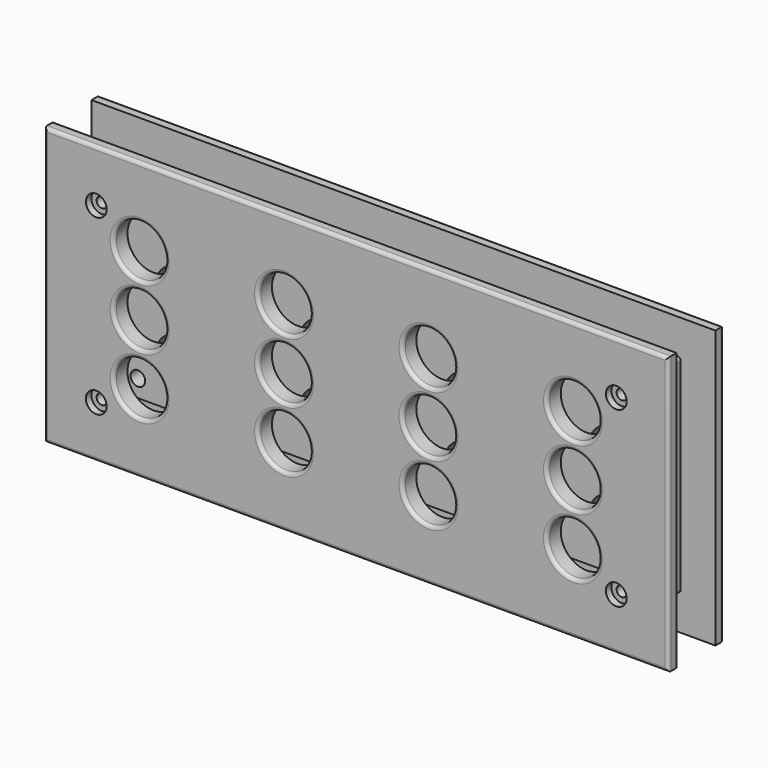
from build123d import *

# Parameters (mm, degrees)
F0_W      = 180
F0_H      = 80
F0_W_2    = 160
F0_H_2    = 60
F2_DEPTH  = 3
F1_W      = 160
F1_H      = 60
F1_R      = 7.5
F3_DEPTH  = 5
F4_R      = 1
F5_R      = 1
F6_R      = 1.5
F7_DEPTH  = 5.001
F10_R     = 2.1
F11_DEPTH = 5
F12_R     = 3
F13_DEPTH = 2


with BuildPart() as f2:
    # F0 (on Front) → F2 (new body)
    with BuildSketch(Plane.XZ):
        with Locations((-14.5841947198, -70.646559976)):
            Rectangle(F0_W, F0_H)
        with Locations((-14.5841947198, -70.646559976)):
            Rectangle(F0_W_2, F0_H_2, mode=Mode.SUBTRACT)
    extrude(amount=F2_DEPTH)

    # F1 (on face) → F3 (join)
    with BuildSketch(Plane.XZ):
        with Locations((-14.5841947198, -70.646559976)):
            Rectangle(F1_W, F1_H)
        with Locations((-77.0841947198, -88.146559976)):
            Circle(F1_R, mode=Mode.SUBTRACT)
        with Locations((-77.0841947198, -70.646559976)):
            Circle(F1_R, mode=Mode.SUBTRACT)
        with Locations((-35.4181947198, -88.146559976)):
            Circle(F1_R, mode=Mode.SUBTRACT)
        with Locations((-35.4181947198, -70.646559976)):
            Circle(F1_R, mode=Mode.SUBTRACT)
        with Locations((6.2478052802, -88.146559976)):
            Circle(F1_R, mode=Mode.SUBTRACT)
        with Locations((6.2478052802, -70.646559976)):
            Circle(F1_R, mode=Mode.SUBTRACT)
        with Locations((47.9138052802, -88.146559976)):
            Circle(F1_R, mode=Mode.SUBTRACT)
        with Locations((47.9138052802, -70.646559976)):
            Circle(F1_R, mode=Mode.SUBTRACT)
        with Locations((-77.0841947198, -53.146559976)):
            Circle(F1_R, mode=Mode.SUBTRACT)
        with Locations((-35.4181947198, -53.146559976)):
            Circle(F1_R, mode=Mode.SUBTRACT)
        with Locations((6.2478052802, -53.146559976)):
            Circle(F1_R, mode=Mode.SUBTRACT)
        with Locations((47.9138052802, -53.146559976)):
            Circle(F1_R, mode=Mode.SUBTRACT)
    extrude(amount=F3_DEPTH)

    # F4
    f4_edges = [f2.edges().sort_by_distance(p)[0] for p in [
        (65.415805, -4, -40.64656),
        (65.415805, -4, -100.64656),
        (-94.584195, -4, -100.64656),
        (-94.584195, -4, -40.64656),
    ]]
    fillet(f4_edges, radius=F4_R)

    # F5
    f5_edges = [f2.edges().sort_by_distance(p)[0] for p in [
        (75.415805, 0, -70.64656),
        (-14.584195, 0, -30.64656),
        (-104.584195, 0, -70.64656),
        (-14.584195, 0, -110.64656),
        (-84.584195, 0, -53.14656),
        (-42.918195, 0, -53.14656),
        (-1.252195, 0, -53.14656),
        (40.413805, 0, -53.14656),
        (-84.584195, 0, -88.14656),
        (-84.584195, 0, -70.64656),
        (-42.918195, 0, -88.14656),
        (-42.918195, 0, -70.64656),
        (-1.252195, 0, -88.14656),
        (-1.252195, 0, -70.64656),
        (40.413805, 0, -88.14656),
        (40.413805, 0, -70.64656),
    ]]
    fillet(f5_edges, radius=F5_R)

    # F6 (on face) → F7 (cut, through all)
    with BuildSketch(Plane(origin=(0, 0, 0), x_dir=(-1, 0, 0), z_dir=(0, 1, 0))):
        with Locations((-60.4158052802, -45.646559976)):
            Circle(F6_R)
        with Locations((89.5841947198, -45.646559976)):
            Circle(F6_R)
        with Locations((-60.4158052802, -95.646559976)):
            Circle(F6_R)
        with Locations((89.5841947198, -95.646559976)):
            Circle(F6_R)
    extrude(amount=-F7_DEPTH, mode=Mode.SUBTRACT)


with BuildPart() as f9_1:
    # F9: instance of F2
    add(f2.part.mirror(Plane(origin=(-14.58391009, -10, -70.646559976), x_dir=(1, 0, 0), z_dir=(0, -1, 0))))

    # F12 (on face) → F13 (cut)
    with BuildSketch(Plane.XZ.offset(20)):
        with Locations((-89.5841947198, -45.646559976)):
            Circle(F12_R)
        with Locations((60.4158052802, -45.646559976)):
            Circle(F12_R)
        with Locations((-89.5841947198, -95.646559976)):
            Circle(F12_R)
        with Locations((60.4158052802, -95.646559976)):
            Circle(F12_R)
    extrude(amount=-F13_DEPTH, mode=Mode.SUBTRACT)


with BuildPart() as f2_1:
    add(f2.part)

    # F10 (on face) → F11 (cut, through all)
    with BuildSketch(Plane(origin=(0, 0, 0), x_dir=(-1, 0, 0), z_dir=(0, 1, 0))):
        with Locations((-60.4158052802, -45.646559976)):
            Circle(F10_R)
        with Locations((89.5841947198, -45.646559976)):
            Circle(F10_R)
        with Locations((-60.4158052802, -95.646559976)):
            Circle(F10_R)
        with Locations((89.5841947198, -95.646559976)):
            Circle(F10_R)
    extrude(amount=-F11_DEPTH, mode=Mode.SUBTRACT)


solid = Compound([f9_1.part, f2_1.part])
